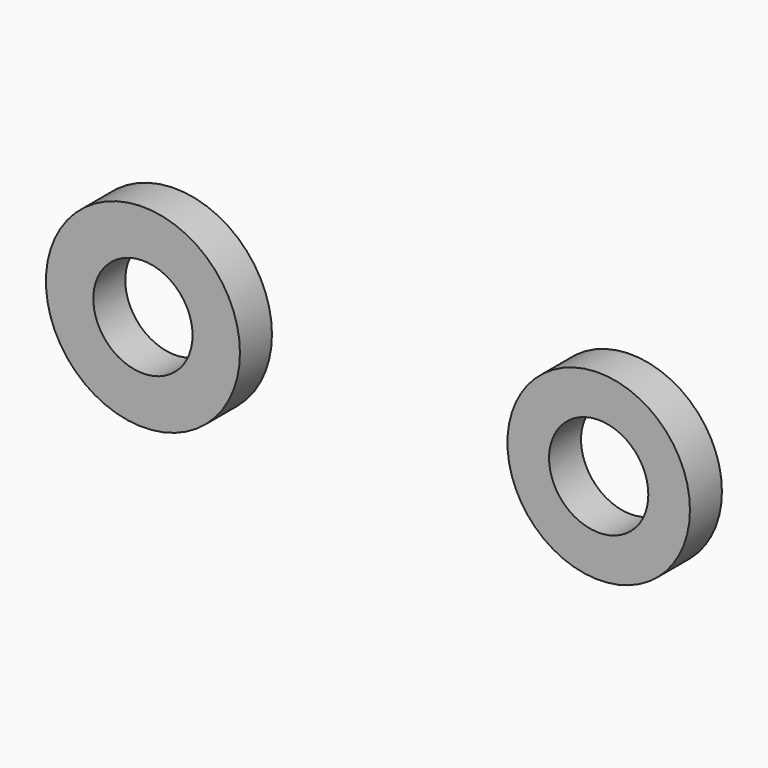
from build123d import *

# Parameters (mm, degrees)
F0_R     = 10.4775
F0_R_2   = 5.3594
F1_DEPTH = 4.318
F2_R     = 9.852883
F2_R_2   = 5.3594
F3_DEPTH = 4.318


with BuildPart() as f1:
    # F0 (on Front) → F1 (new body)
    with BuildSketch(Plane.XZ):
        with Locations((-24.751294, 23.312267)):
            Circle(F0_R)
        with Locations((-24.751294, 23.312267)):
            Circle(F0_R_2, mode=Mode.SUBTRACT)
    extrude(amount=-F1_DEPTH)


with BuildPart() as f3:
    # F2 (on Front) → F3 (new body)
    with BuildSketch(Plane.XZ):
        with Locations((27.917156, 27.053742)):
            Circle(F2_R)
        with Locations((27.917156, 27.053742)):
            Circle(F2_R_2, mode=Mode.SUBTRACT)
    extrude(amount=F3_DEPTH)


solid = Compound([f1.part, f3.part])
